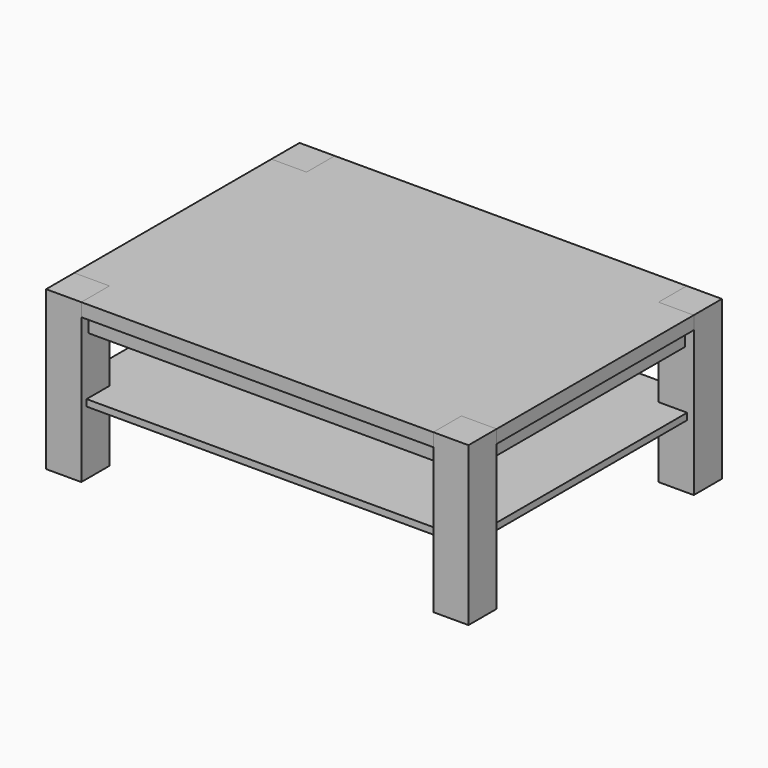
from build123d import *

# Parameters (mm, degrees)
F3_DEPTH  = 38.1
F4_W      = 101.6
F4_H      = 101.6
F5_DEPTH  = 457.2
F8_DEPTH  = 19.05
F9_W      = 1016
F9_H      = 38.1
F10_DEPTH = 50.8
F9_W_2    = 38.1
F9_H_2    = 711.2


with BuildPart() as f3:
    # F2 (on Top) → F3 (new body)
    with BuildSketch(Plane.XY):
        Polygon((-508, 355.6), (-609.6, 355.6), (-609.6, -355.6), (-508, -355.6), (-508, -457.2), (508, -457.2), (508, -355.6), (609.6, -355.6), (609.6, 355.6), (508, 355.6), (508, 457.2), (-508, 457.2), align=None)
    extrude(amount=F3_DEPTH)


with BuildPart() as f5:
    # F4 (on face) → F5 (new body)
    with BuildSketch(Plane.XY.offset(38.1)):
        with Locations((-558.8, -406.4)):
            Rectangle(F4_W, F4_H)
    extrude(amount=-F5_DEPTH)


with BuildPart() as f5b:
    # F4 (on face) → F5, piece 2 (new body)
    with BuildSketch(Plane.XY.offset(38.1)):
        with Locations((558.8, -406.4)):
            Rectangle(F4_W, F4_H)
    extrude(amount=-F5_DEPTH)


with BuildPart() as f5c:
    # F4 (on face) → F5, piece 3 (new body)
    with BuildSketch(Plane.XY.offset(38.1)):
        with Locations((558.8, 406.4)):
            Rectangle(F4_W, F4_H)
    extrude(amount=-F5_DEPTH)


with BuildPart() as f5d:
    # F4 (on face) → F5, piece 4 (new body)
    with BuildSketch(Plane.XY.offset(38.1)):
        with Locations((-558.8, 406.4)):
            Rectangle(F4_W, F4_H)
    extrude(amount=-F5_DEPTH)


with BuildPart() as f8:
    # F7 (on offset) → F8 (new body)
    with BuildSketch(Plane(origin=(0, 0, -215.9), x_dir=(1, 0, 0), z_dir=(0, 0, -1))):
        Polygon((508, 438.1079459667), (-508, 438.1079459667), (-590.5079459667, 355.6), (-590.5079459667, -355.6), (-508, -438.1079459667), (508, -438.1079459667), (590.5079459667, -355.6), (590.5079459667, 355.6), align=None)
    extrude(amount=F8_DEPTH)


with BuildPart() as f10:
    # F9 (on face) → F10 (new body)
    with BuildSketch(Plane(origin=(0, 0, 0), x_dir=(1, 0, 0), z_dir=(0, 0, -1))):
        with Locations((0, 412.75)):
            Rectangle(F9_W, F9_H)
    extrude(amount=F10_DEPTH)


with BuildPart() as f10b:
    # F9 (on face) → F10, piece 2 (new body)
    with BuildSketch(Plane(origin=(0, 0, 0), x_dir=(1, 0, 0), z_dir=(0, 0, -1))):
        with Locations((565.15, 0)):
            Rectangle(F9_W_2, F9_H_2)
    extrude(amount=F10_DEPTH)


with BuildPart() as f10c:
    # F9 (on face) → F10, piece 3 (new body)
    with BuildSketch(Plane(origin=(0, 0, 0), x_dir=(1, 0, 0), z_dir=(0, 0, -1))):
        with Locations((0, -412.75)):
            Rectangle(F9_W, F9_H)
    extrude(amount=F10_DEPTH)


with BuildPart() as f10d:
    # F9 (on face) → F10, piece 4 (new body)
    with BuildSketch(Plane(origin=(0, 0, 0), x_dir=(1, 0, 0), z_dir=(0, 0, -1))):
        with Locations((-565.15, 0)):
            Rectangle(F9_W_2, F9_H_2)
    extrude(amount=F10_DEPTH)


solid = Compound([f3.part, f5.part, f5b.part, f5c.part, f5d.part, f8.part, f10.part, f10b.part, f10c.part, f10d.part])
